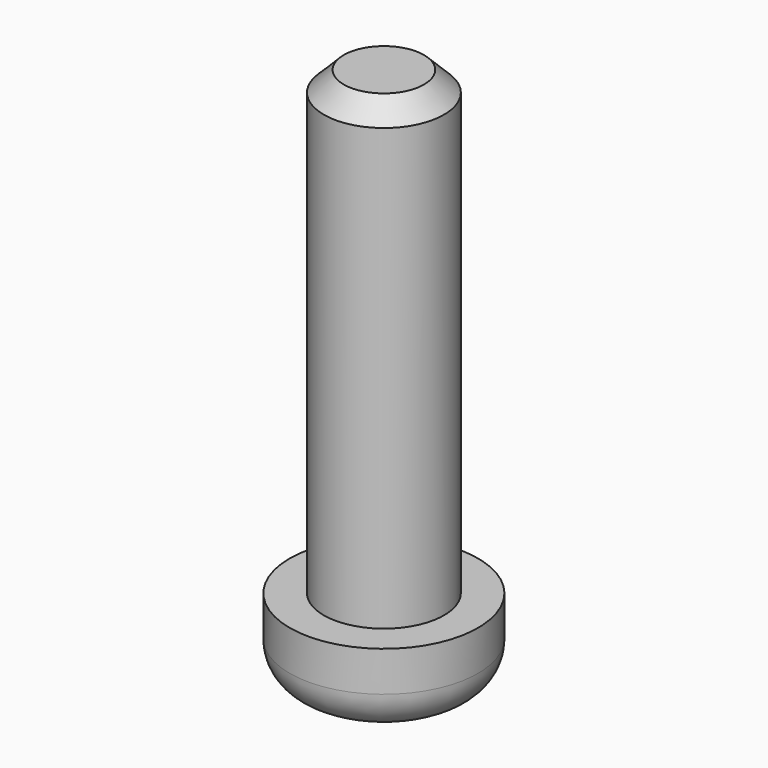
from build123d import *

# Parameters (mm, degrees)
F2_SIZE = 0.5
F3_R    = 1


with BuildPart() as f1:
    # F0 (on Front) → F1 (revolve)
    with BuildSketch(Plane.XZ):
        Polygon((0, 13.5), (-1.5, 13.5), (-1.5, 2), (-2.35, 2), (-2.35, 0), (0, 0), align=None)
    revolve(axis=Axis((0, 0, 3.320783), (0, 0, -1)))

    # F2
    f2_edges = [f1.edges().sort_by_distance(p)[0] for p in [
        (1.5, 0, 13.5),
    ]]
    chamfer(f2_edges, length=F2_SIZE)

    # F3
    f3_edges = [f1.edges().sort_by_distance(p)[0] for p in [
        (2.35, 0, 0),
    ]]
    fillet(f3_edges, radius=F3_R)


solid = f1.part
